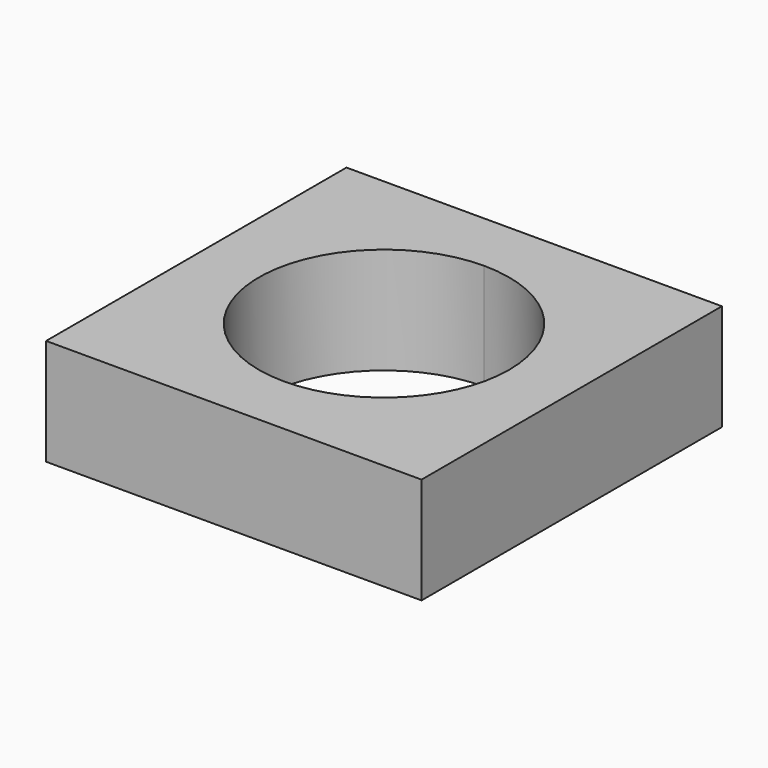
from build123d import *

# Parameters (mm, degrees)
F1_DEPTH = 2.159


with BuildPart() as f1:
    # F0 (on Top) → F1 (new body)
    with BuildSketch(Plane.XY):
        with BuildLine():
            Line((-3.81, 0), (0, 0))
            Line((0, 0), (0, 1.27))
            ThreePointArc((0, 1.27), (-2.54, 3.81), (0, 6.35))
            Line((0, 6.35), (0, 7.62))
            Line((0, 7.62), (-3.81, 7.62))
            Line((-3.81, 7.62), (-3.81, 0))
        make_face()
        with BuildLine():
            Line((0, 1.27), (0, 0))
            Line((0, 0), (3.81, 0))
            Line((3.81, 0), (3.81, 7.62))
            Line((3.81, 7.62), (0, 7.62))
            Line((0, 7.62), (0, 6.35))
            ThreePointArc((0, 6.35), (1.796051, 5.606051), (2.54, 3.81))
            ThreePointArc((2.54, 3.81), (1.796051, 2.013949), (0, 1.27))
        make_face()
    extrude(amount=F1_DEPTH)


solid = f1.part
